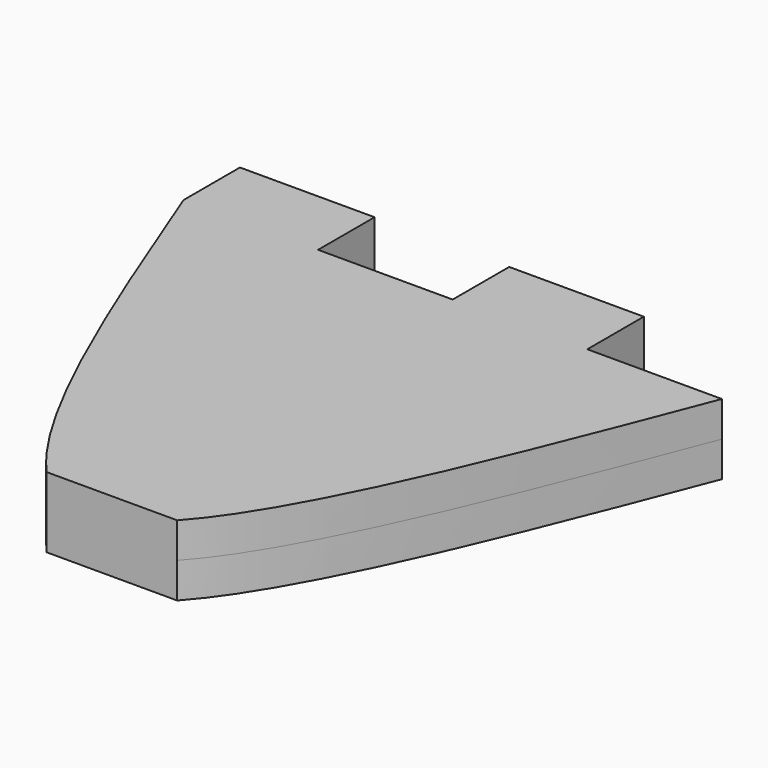
from build123d import *

# Parameters (mm, degrees)
F1_DEPTH = 1.6


with BuildPart() as f1:
    # F0 (on Top) → F1 (new body, symmetric)
    with BuildSketch(Plane.XY):
        with BuildLine():
            Line((-12.2, 3.2), (-12.2, 0))
            add(Edge.make_bspline(
                [(-12.2, 0), (-9.118693519, -7.9558323076), (-6.0373870379, -15.9116646152), (-2.9560805569, -19.3)],
                knots=[0, 0, 0, 0, 0.3788491575, 0.3788491575, 0.3788491575, 0.3788491575], degree=3))
            Line((-2.9560805569, -19.3), (2.9560805569, -19.3))
            add(Edge.make_bspline(
                [(2.9560805569, -19.3), (6.0373870379, -15.9116646152), (9.118693519, -7.9558323076), (12.2, 0)],
                knots=[0.6211508425, 0.6211508425, 0.6211508425, 0.6211508425, 1, 1, 1, 1], degree=3))
            Line((12.2, 0), (6.1, 0))
            Line((6.1, 0), (6.1, 3.2))
            Line((6.1, 3.2), (0, 3.2))
            Line((0, 3.2), (0, 0))
            Line((0, 0), (-6.1, 0))
            Line((-6.1, 0), (-6.1, 3.2))
            Line((-6.1, 3.2), (-12.2, 3.2))
        make_face()
    extrude(amount=F1_DEPTH, both=True)


solid = f1.part
